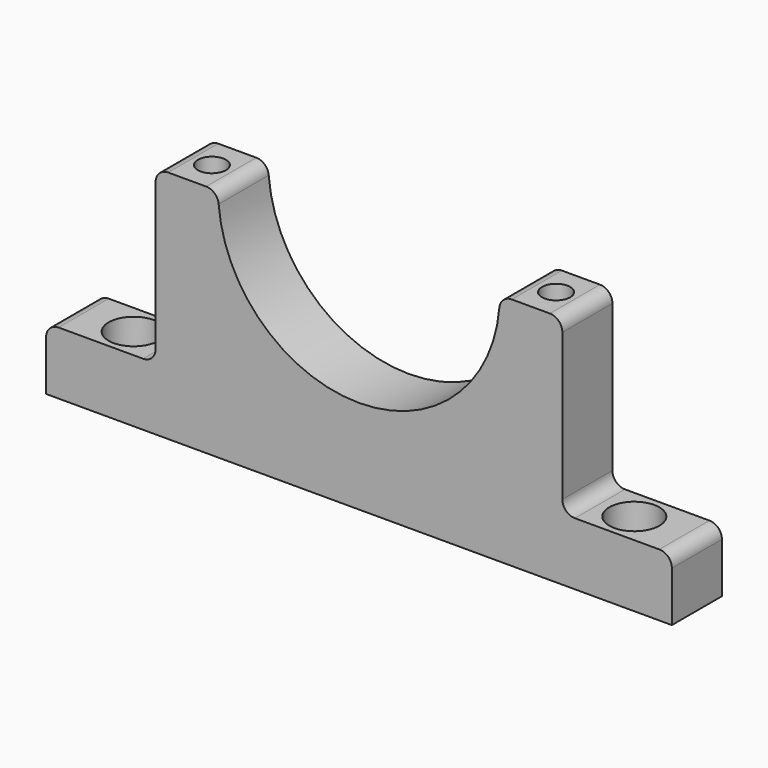
from build123d import *

# Parameters (mm, degrees)
CYLINDER011_R     = 4
CYLINDER011_DEPTH = 28.5
CYLINDER007_R     = 2.25
CYLINDER007_DEPTH = 65
CYLINDER006_R     = 2.25
CYLINDER006_DEPTH = 65
PAD002_DEPTH      = 4
PAD001_DEPTH      = 4
CYLINDER010_R     = 4
CYLINDER010_DEPTH = 28.5
CYLINDER004_R     = 2.25
CYLINDER004_DEPTH = 10
CYLINDER005_R     = 4
CYLINDER005_DEPTH = 5
CYLINDER002_R     = 2.25
CYLINDER002_DEPTH = 10
CYLINDER003_R     = 4
CYLINDER003_DEPTH = 5
CYLINDER_R        = 22.5
CYLINDER_DEPTH    = 10
BOX_W             = 100
BOX_H             = 10
BOX_DEPTH         = 10
BOX001_W          = 65
BOX001_H          = 10
BOX001_DEPTH      = 37.5
FILLET_R          = 2


with BuildPart() as cylinder011:
    # Cylinder011 → Cylinder011 (new body)
    with BuildSketch(Plane(origin=(-27.5, 5, 0), x_dir=(1, 0, 0), z_dir=(0, 0, 1))):
        Circle(CYLINDER011_R)
    extrude(amount=CYLINDER011_DEPTH)


with BuildPart() as cylinder007:
    # Cylinder007 → Cylinder007 (new body)
    with BuildSketch(Plane(origin=(-27.5, 5, 0), x_dir=(1, 0, 0), z_dir=(0, 0, 1))):
        Circle(CYLINDER007_R)
    extrude(amount=CYLINDER007_DEPTH)


with BuildPart() as fusion004:
    # Cylinder006 → Cylinder006 (new body)
    with BuildSketch(Plane(origin=(27.5, 5, 0), x_dir=(1, 0, 0), z_dir=(0, 0, 1))):
        Circle(CYLINDER006_R)
    extrude(amount=CYLINDER006_DEPTH)

    # Fusion004: union Cylinder007
    add(cylinder007.part)


with BuildPart() as m4press001:
    # Sketch002 → Pad002 (new body)
    with BuildSketch(Plane.XY):
        Polygon((4, 0), (2, 3.464102), (-2, 3.464102), (-4, 0), (-2, -3.464102), (2, -3.464102), align=None)
    extrude(amount=PAD002_DEPTH)


with BuildPart() as m4press001_1:
    # Body002 placement: moved
    add(m4press001.part.moved(Location((27.5, 5, 28.5))))


with BuildPart() as m4press:
    # Sketch001 → Pad001 (new body)
    with BuildSketch(Plane.XY):
        Polygon((4, 0), (2, 3.464102), (-2, 3.464102), (-4, 0), (-2, -3.464102), (2, -3.464102), align=None)
    extrude(amount=PAD001_DEPTH)


with BuildPart() as m4press_1:
    # Body001 placement: moved
    add(m4press.part.moved(Location((-27.5, 5, 28.5))))


with BuildPart() as connectors:
    # Cylinder010 → Cylinder010 (new body)
    with BuildSketch(Plane(origin=(27.5, 5, 0), x_dir=(1, 0, 0), z_dir=(0, 0, 1))):
        Circle(CYLINDER010_R)
    extrude(amount=CYLINDER010_DEPTH)

    # Fusion006: union Cylinder011, Fusion004, M4Press001, M4Press
    add(cylinder011.part)
    add(fusion004.part)
    add(m4press001_1.part)
    add(m4press_1.part)


with BuildPart() as cylinder004:
    # Cylinder004 → Cylinder004 (new body)
    with BuildSketch(Plane.XY):
        Circle(CYLINDER004_R)
    extrude(amount=CYLINDER004_DEPTH)


with BuildPart() as fusion002:
    # Cylinder005 → Cylinder005 (new body)
    with BuildSketch(Plane.XY.offset(5)):
        Circle(CYLINDER005_R)
    extrude(amount=CYLINDER005_DEPTH)

    # Fusion002: union Cylinder004
    add(cylinder004.part)


with BuildPart() as fusion002_1:
    # Fusion002 placement: moved
    add(fusion002.part.moved(Location((-40, 5, 0))))


with BuildPart() as cylinder002:
    # Cylinder002 → Cylinder002 (new body)
    with BuildSketch(Plane.XY):
        Circle(CYLINDER002_R)
    extrude(amount=CYLINDER002_DEPTH)


with BuildPart() as fusion003:
    # Cylinder003 → Cylinder003 (new body)
    with BuildSketch(Plane.XY.offset(5)):
        Circle(CYLINDER003_R)
    extrude(amount=CYLINDER003_DEPTH)

    # Fusion001: union Cylinder002
    add(cylinder002.part)


with BuildPart() as fusion003_1:
    # Fusion001 placement: moved
    add(fusion003.part.moved(Location((40, 5, 0))))

    # Fusion003: union Fusion002
    add(fusion002_1.part)


with BuildPart() as cylinder:
    # Cylinder → Cylinder (new body)
    with BuildSketch(Plane(origin=(0, 10, 37.5), x_dir=(1, 0, 0), z_dir=(0, -1, 0))):
        Circle(CYLINDER_R)
    extrude(amount=CYLINDER_DEPTH)


with BuildPart() as cube:
    # Box → Box (new body)
    with BuildSketch(Plane(origin=(-50, 0, 0), x_dir=(1, 0, 0), z_dir=(0, 0, 1))):
        with Locations((50, 5)):
            Rectangle(BOX_W, BOX_H)
    extrude(amount=BOX_DEPTH)


with BuildPart() as lower_part:
    # Box001 → Box001 (new body)
    with BuildSketch(Plane(origin=(-32.5, 0, 0), x_dir=(1, 0, 0), z_dir=(0, 0, 1))):
        with Locations((32.5, 5)):
            Rectangle(BOX001_W, BOX001_H)
    extrude(amount=BOX001_DEPTH)

    # Fusion: union Cube
    add(cube.part)

    # Cut: cut Cylinder
    add(cylinder.part, mode=Mode.SUBTRACT)

    # Cut001: cut Fusion003
    add(fusion003_1.part, mode=Mode.SUBTRACT)

    # Cut002: cut Connectors
    add(connectors.part, mode=Mode.SUBTRACT)

    # Fillet
    fillet_edges = [lower_part.edges().sort_by_distance(p)[0] for p in [
        (50, 5, 10),
        (32.5, 5, 10),
        (32.5, 5, 37.5),
        (22.5, 5, 37.5),
        (-22.5, 5, 37.5),
        (-32.5, 5, 37.5),
        (-32.5, 5, 10),
        (-50, 5, 10),
    ]]
    fillet(fillet_edges, radius=FILLET_R)


solid = lower_part.part
